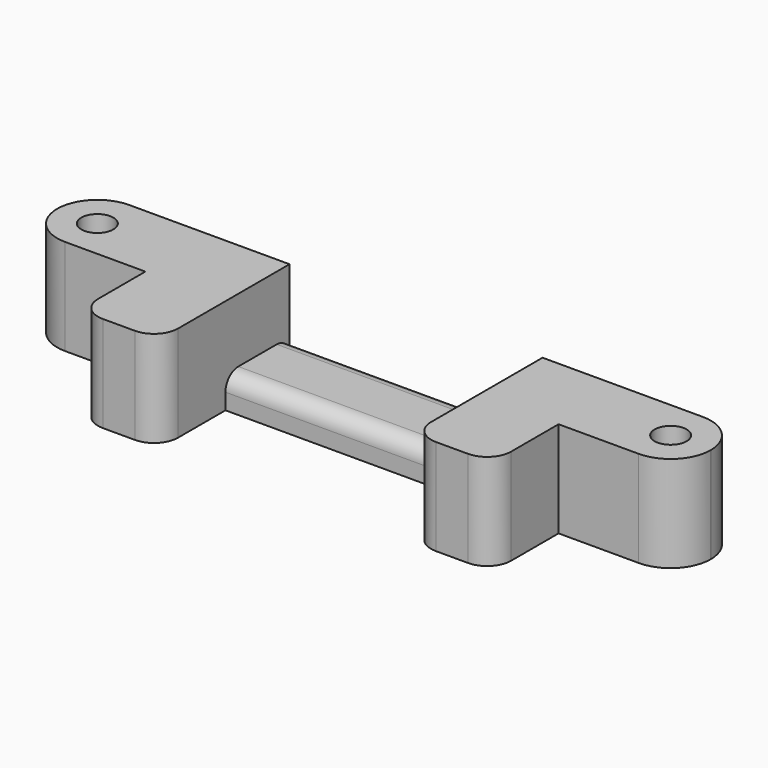
from build123d import *

# Parameters (mm, degrees)
CYLINDER264_R     = 2
CYLINDER264_DEPTH = 12
CYLINDER265_R     = 2
CYLINDER265_DEPTH = 12
BOX423_W          = 25
BOX423_H          = 10
BOX423_DEPTH      = 12
BOX424_W          = 25
BOX424_H          = 10
BOX424_DEPTH      = 12
BOX425_W          = 10
BOX425_H          = 20.4
BOX425_DEPTH      = 12
BOX426_W          = 10
BOX426_H          = 20.4
BOX426_DEPTH      = 12
BOX422_W          = 81.6
BOX422_H          = 10
BOX422_DEPTH      = 4
FILLET010_R       = 4.99
FILLET011_R       = 4.99
FILLET012_R       = 3
FILLET013_R       = 2


with BuildPart() as cylinder264:
    # Cylinder264 → Cylinder264 (new body)
    with BuildSketch(Plane(origin=(1.4, 70, 0), x_dir=(1, 0, 0), z_dir=(0, 0, 1))):
        Circle(CYLINDER264_R)
    extrude(amount=CYLINDER264_DEPTH)


with BuildPart() as fusion270:
    # Cylinder265 → Cylinder265 (new body)
    with BuildSketch(Plane(origin=(-70.2, 70, 0), x_dir=(1, 0, 0), z_dir=(0, 0, 1))):
        Circle(CYLINDER265_R)
    extrude(amount=CYLINDER265_DEPTH)

    # Fusion270: union Cylinder264
    add(cylinder264.part)


with BuildPart() as box423:
    # Box423 → Box423 (new body)
    with BuildSketch(Plane(origin=(-75.2, 65, 0), x_dir=(1, 0, 0), z_dir=(0, 0, 1))):
        with Locations((12.5, 5)):
            Rectangle(BOX423_W, BOX423_H)
    extrude(amount=BOX423_DEPTH)


with BuildPart() as box424:
    # Box424 → Box424 (new body)
    with BuildSketch(Plane(origin=(-18.6, 65, 0), x_dir=(1, 0, 0), z_dir=(0, 0, 1))):
        with Locations((12.5, 5)):
            Rectangle(BOX424_W, BOX424_H)
    extrude(amount=BOX424_DEPTH)


with BuildPart() as box425:
    # Box425 → Box425 (new body)
    with BuildSketch(Plane(origin=(-60.2, 54.6, 0), x_dir=(1, 0, 0), z_dir=(0, 0, 1))):
        with Locations((5, 10.2)):
            Rectangle(BOX425_W, BOX425_H)
    extrude(amount=BOX425_DEPTH)


with BuildPart() as box426:
    # Box426 → Box426 (new body)
    with BuildSketch(Plane(origin=(-18.6, 54.6, 0), x_dir=(1, 0, 0), z_dir=(0, 0, 1))):
        with Locations((5, 10.2)):
            Rectangle(BOX426_W, BOX426_H)
    extrude(amount=BOX426_DEPTH)


with BuildPart() as cut295:
    # Box422 → Box422 (new body)
    with BuildSketch(Plane(origin=(-75.2, 65, 0), x_dir=(1, 0, 0), z_dir=(0, 0, 1))):
        with Locations((40.8, 5)):
            Rectangle(BOX422_W, BOX422_H)
    extrude(amount=BOX422_DEPTH)

    # Fusion269: union Box423, Box424, Box425, Box426
    add(box423.part)
    add(box424.part)
    add(box425.part)
    add(box426.part)

    # Fillet010
    fillet010_edges = [cut295.edges().sort_by_distance(p)[0] for p in [
        (-75.2, 65, 8),
        (-75.2, 75, 8),
    ]]
    fillet(fillet010_edges, radius=FILLET010_R)

    # Fillet011
    fillet011_edges = [cut295.edges().sort_by_distance(p)[0] for p in [
        (6.4, 75, 8),
        (6.4, 65, 8),
    ]]
    fillet(fillet011_edges, radius=FILLET011_R)

    # Fillet012
    fillet012_edges = [cut295.edges().sort_by_distance(p)[0] for p in [
        (-8.6, 54.6, 6),
        (-18.6, 54.6, 6),
        (-50.2, 54.6, 6),
        (-60.2, 54.6, 6),
    ]]
    fillet(fillet012_edges, radius=FILLET012_R)

    # Fillet013
    fillet013_edges = [cut295.edges().sort_by_distance(p)[0] for p in [
        (-34.4, 65, 4),
        (-34.4, 75, 4),
    ]]
    fillet(fillet013_edges, radius=FILLET013_R)

    # Cut295: cut Fusion270
    add(fusion270.part, mode=Mode.SUBTRACT)


solid = cut295.part
